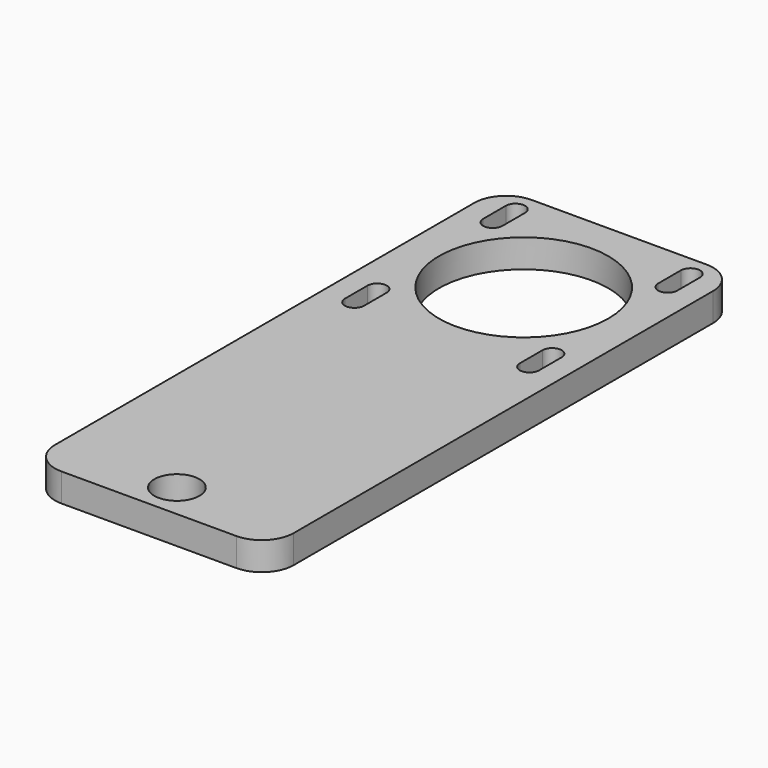
from build123d import *

# Parameters (mm, degrees)
SKETCH_R   = 4
SKETCH_R_2 = 15
PAD_DEPTH  = 5


with BuildPart() as part:
    # Sketch → Pad (new body)
    with BuildSketch(Plane.XY):
        with BuildLine():
            Line((-15.5, 21.15), (15.5, 21.15))
            ThreePointArc((21.15, 15.5), (19.495153, 19.495153), (15.5, 21.15))
            Line((21.15, 15.5), (21.15, -77.362437))
            ThreePointArc((15.5, -83.012437), (19.495153, -81.35759), (21.15, -77.362437))
            Line((15.5, -83.012437), (-15.5, -83.012437))
            ThreePointArc((-21.15, -77.362437), (-19.495153, -81.35759), (-15.5, -83.012437))
            Line((-21.15, -77.362437), (-21.15, 15.5))
            ThreePointArc((-15.5, 21.15), (-19.495153, 19.495153), (-21.15, 15.5))
        make_face()
        with Locations((0, -76.8)):
            Circle(SKETCH_R, mode=Mode.SUBTRACT)
        Circle(SKETCH_R_2, mode=Mode.SUBTRACT)
        with BuildLine():
            ThreePointArc((-17.2, 12.542002), (-15.5, 10.842002), (-13.8, 12.542002))
            Line((-13.8, 12.542002), (-13.8, 17.562841))
            ThreePointArc((-13.8, 17.562841), (-15.5, 19.262841), (-17.2, 17.562841))
            Line((-17.2, 12.542002), (-17.2, 17.562841))
        make_face(mode=Mode.SUBTRACT)
        with BuildLine():
            ThreePointArc((13.8, 12.542002), (15.5, 10.842002), (17.2, 12.542002))
            Line((17.2, 12.542002), (17.2, 17.562841))
            ThreePointArc((17.2, 17.562841), (15.5, 19.262841), (13.8, 17.562841))
            Line((13.8, 12.542002), (13.8, 17.562841))
        make_face(mode=Mode.SUBTRACT)
        with BuildLine():
            ThreePointArc((-13.8, -13.068467), (-15.5, -11.368467), (-17.2, -13.068467))
            Line((-17.2, -13.068467), (-17.2, -18.089305))
            ThreePointArc((-17.2, -18.089305), (-15.5, -19.789305), (-13.8, -18.089305))
            Line((-13.8, -13.068467), (-13.8, -18.089305))
        make_face(mode=Mode.SUBTRACT)
        with BuildLine():
            ThreePointArc((17.2, -13.068467), (15.5, -11.368467), (13.8, -13.068467))
            Line((13.8, -13.068467), (13.8, -18.089305))
            ThreePointArc((13.8, -18.089305), (15.5, -19.789305), (17.2, -18.089305))
            Line((17.2, -13.068467), (17.2, -18.089305))
        make_face(mode=Mode.SUBTRACT)
    extrude(amount=PAD_DEPTH)


solid = part.part
